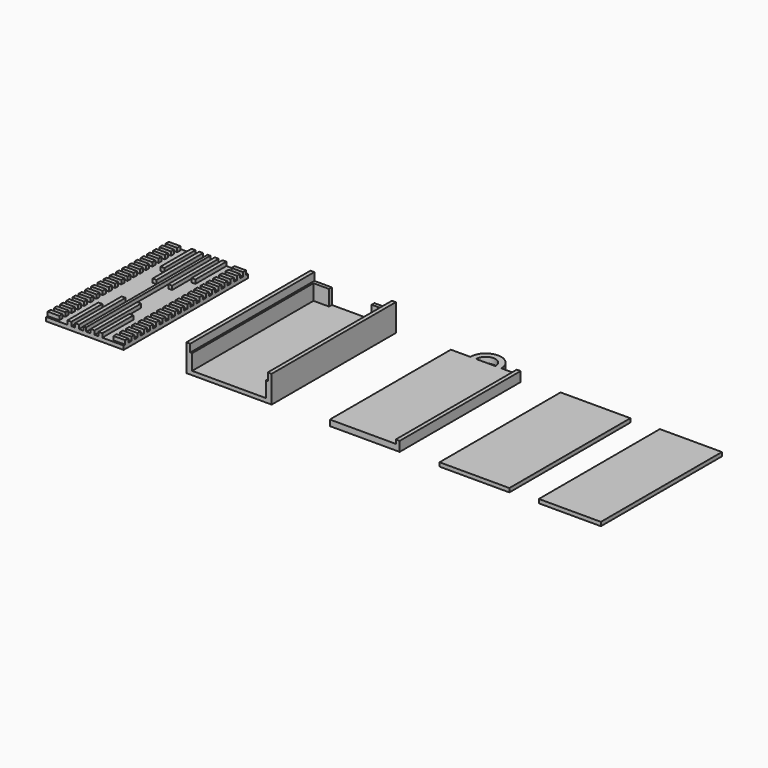
from build123d import *

# Parameters (mm, degrees)
F0_W     = 3
F0_H     = 1
F0_W_2   = 1
F0_H_2   = 15
F0_W_3   = 0.7
F0_H_3   = 40
F0_H_4   = 10
F1_DEPTH = 1
F2_DEPTH = 2
F3_DEPTH = 1
F4_DEPTH = 5
F5_DEPTH = 7
F0_H_5   = 39
F6_DEPTH = 1.5
F7_DEPTH = 2.5
F0_W_4   = 18
F8_DEPTH = 1
F0_W_5   = 16
F9_DEPTH = 1


with BuildPart() as f1:
    # F0 (on Top) → F1 (new body)
    with BuildSketch(Plane.XY):
        with Locations((-53.3331068737, 19)):
            Rectangle(F0_W, F0_H)
        with Locations((-53.3331068737, 17)):
            Rectangle(F0_W, F0_H)
        with Locations((-36.3331068737, 11)):
            Rectangle(F0_W, F0_H)
        with Locations((-53.3331068737, 15)):
            Rectangle(F0_W, F0_H)
        with Locations((-53.3331068737, 13)):
            Rectangle(F0_W, F0_H)
        with Locations((-36.3331068737, 29)):
            Rectangle(F0_W, F0_H)
        with Locations((-36.3331068737, 5)):
            Rectangle(F0_W, F0_H)
        with Locations((-36.3331068737, 17)):
            Rectangle(F0_W, F0_H)
        with Locations((-42.8331068737, 32.5)):
            Rectangle(F0_W_2, F0_H_2)
        with Locations((-53.3331068737, 39)):
            Rectangle(F0_W, F0_H)
        with Locations((-36.3331068737, 3)):
            Rectangle(F0_W, F0_H)
        with Locations((-36.3331068737, 35)):
            Rectangle(F0_W, F0_H)
        with Locations((-53.3331068737, 11)):
            Rectangle(F0_W, F0_H)
        with Locations((-36.3331068737, 37)):
            Rectangle(F0_W, F0_H)
        with Locations((-44.8331068737, 20)):
            Rectangle(F0_W_3, F0_H_3)
        with Locations((-53.3331068737, 9)):
            Rectangle(F0_W, F0_H)
        with Locations((-53.3331068737, 7)):
            Rectangle(F0_W, F0_H)
        with Locations((-46.8331068737, 32.5)):
            Rectangle(F0_W_2, F0_H_2)
        with Locations((-36.3331068737, 13)):
            Rectangle(F0_W, F0_H)
        with Locations((-53.3331068737, 5)):
            Rectangle(F0_W, F0_H)
        with Locations((-53.3331068737, 3)):
            Rectangle(F0_W, F0_H)
        with Locations((-53.3331068737, 27)):
            Rectangle(F0_W, F0_H)
        with Locations((-40.8331068737, 5)):
            Rectangle(F0_W_2, F0_H_4)
        with Locations((-36.3331068737, 21)):
            Rectangle(F0_W, F0_H)
        with Locations((-53.3331068737, 1)):
            Rectangle(F0_W, F0_H)
        with Locations((-53.3331068737, 23)):
            Rectangle(F0_W, F0_H)
        with Locations((-53.3331068737, 21)):
            Rectangle(F0_W, F0_H)
        with Locations((-53.3331068737, 25)):
            Rectangle(F0_W, F0_H)
        with Locations((-36.3331068737, 1)):
            Rectangle(F0_W, F0_H)
        with Locations((-36.3331068737, 33)):
            Rectangle(F0_W, F0_H)
        with Locations((-53.3331068737, 29)):
            Rectangle(F0_W, F0_H)
        with Locations((-48.8331068737, 5)):
            Rectangle(F0_W_2, F0_H_4)
        with Locations((-36.3331068737, 23)):
            Rectangle(F0_W, F0_H)
        with Locations((-53.3331068737, 31)):
            Rectangle(F0_W, F0_H)
        with Locations((-36.3331068737, 25)):
            Rectangle(F0_W, F0_H)
        with Locations((-46.8331068737, 7.5)):
            Rectangle(F0_W_2, F0_H_2)
        with Locations((-53.3331068737, 33)):
            Rectangle(F0_W, F0_H)
        with Locations((-42.8331068737, 7.5)):
            Rectangle(F0_W_2, F0_H_2)
        with Locations((-36.3331068737, 27)):
            Rectangle(F0_W, F0_H)
        with Locations((-36.3331068737, 31)):
            Rectangle(F0_W, F0_H)
        with Locations((-53.3331068737, 37)):
            Rectangle(F0_W, F0_H)
        with Locations((-53.3331068737, 35)):
            Rectangle(F0_W, F0_H)
        with Locations((-36.3331068737, 15)):
            Rectangle(F0_W, F0_H)
        with Locations((-48.8331068737, 35)):
            Rectangle(F0_W_2, F0_H_4)
        with Locations((-36.3331068737, 9)):
            Rectangle(F0_W, F0_H)
        Polygon((-44.4831068737, 40), (-44.4831068737, 0), (-43.3331068737, 0), (-43.3331068737, 15), (-42.3331068737, 15), (-42.3331068737, 0), (-41.3331068737, 0), (-41.3331068737, 10), (-40.3331068737, 10), (-40.3331068737, 0), (-34.8331068737, 0), (-34.8331068737, 0.5), (-37.8331068737, 0.5), (-37.8331068737, 1.5), (-34.8331068737, 1.5), (-34.8331068737, 2.5), (-37.8331068737, 2.5), (-37.8331068737, 3.5), (-34.8331068737, 3.5), (-34.8331068737, 4.5), (-37.8331068737, 4.5), (-37.8331068737, 5.5), (-34.8331068737, 5.5), (-34.8331068737, 6.5), (-37.8331068737, 6.5), (-37.8331068737, 7.5), (-34.8331068737, 7.5), (-34.8331068737, 8.5), (-37.8331068737, 8.5), (-37.8331068737, 9.5), (-34.8331068737, 9.5), (-34.8331068737, 10.5), (-37.8331068737, 10.5), (-37.8331068737, 11.5), (-34.8331068737, 11.5), (-34.8331068737, 12.5), (-37.8331068737, 12.5), (-37.8331068737, 13.5), (-34.8331068737, 13.5), (-34.8331068737, 14.5), (-37.8331068737, 14.5), (-37.8331068737, 15.5), (-34.8331068737, 15.5), (-34.8331068737, 16.5), (-37.8331068737, 16.5), (-37.8331068737, 17.5), (-34.8331068737, 17.5), (-34.8331068737, 18.5), (-37.8331068737, 18.5), (-37.8331068737, 19.5), (-34.8331068737, 19.5), (-34.8331068737, 20.5), (-37.8331068737, 20.5), (-37.8331068737, 21.5), (-34.8331068737, 21.5), (-34.8331068737, 22.5), (-37.8331068737, 22.5), (-37.8331068737, 23.5), (-34.8331068737, 23.5), (-34.8331068737, 24.5), (-37.8331068737, 24.5), (-37.8331068737, 25.5), (-34.8331068737, 25.5), (-34.8331068737, 26.5), (-37.8331068737, 26.5), (-37.8331068737, 27.5), (-34.8331068737, 27.5), (-34.8331068737, 28.5), (-37.8331068737, 28.5), (-37.8331068737, 29.5), (-34.8331068737, 29.5), (-34.8331068737, 30.5), (-37.8331068737, 30.5), (-37.8331068737, 31.5), (-34.8331068737, 31.5), (-34.8331068737, 32.5), (-37.8331068737, 32.5), (-37.8331068737, 33.5), (-34.8331068737, 33.5), (-34.8331068737, 34.5), (-37.8331068737, 34.5), (-37.8331068737, 35.5), (-34.8331068737, 35.5), (-34.8331068737, 36.5), (-37.8331068737, 36.5), (-37.8331068737, 37.5), (-34.8331068737, 37.5), (-34.8331068737, 38.5), (-37.8331068737, 38.5), (-37.8331068737, 39.5), (-34.8331068737, 39.5), (-34.8331068737, 40), (-40.3331068737, 40), (-40.3331068737, 30), (-41.3331068737, 30), (-41.3331068737, 40), (-42.3331068737, 40), (-42.3331068737, 25), (-43.3331068737, 25), (-43.3331068737, 40), align=None)
        with Locations((-36.3331068737, 19)):
            Rectangle(F0_W, F0_H)
        Polygon((-54.8331068737, 0.5), (-54.8331068737, 0), (-49.3331068737, 0), (-49.3331068737, 10), (-48.3331068737, 10), (-48.3331068737, 0), (-47.3331068737, 0), (-47.3331068737, 15), (-46.3331068737, 15), (-46.3331068737, 0), (-45.1831068737, 0), (-45.1831068737, 40), (-46.3331068737, 40), (-46.3331068737, 25), (-47.3331068737, 25), (-47.3331068737, 40), (-48.3331068737, 40), (-48.3331068737, 30), (-49.3331068737, 30), (-49.3331068737, 40), (-54.8331068737, 40), (-54.8331068737, 39.5), (-51.8331068737, 39.5), (-51.8331068737, 38.5), (-54.8331068737, 38.5), (-54.8331068737, 37.5), (-51.8331068737, 37.5), (-51.8331068737, 36.5), (-54.8331068737, 36.5), (-54.8331068737, 35.5), (-51.8331068737, 35.5), (-51.8331068737, 34.5), (-54.8331068737, 34.5), (-54.8331068737, 33.5), (-51.8331068737, 33.5), (-51.8331068737, 32.5), (-54.8331068737, 32.5), (-54.8331068737, 31.5), (-51.8331068737, 31.5), (-51.8331068737, 30.5), (-54.8331068737, 30.5), (-54.8331068737, 29.5), (-51.8331068737, 29.5), (-51.8331068737, 28.5), (-54.8331068737, 28.5), (-54.8331068737, 27.5), (-51.8331068737, 27.5), (-51.8331068737, 26.5), (-54.8331068737, 26.5), (-54.8331068737, 25.5), (-51.8331068737, 25.5), (-51.8331068737, 24.5), (-54.8331068737, 24.5), (-54.8331068737, 23.5), (-51.8331068737, 23.5), (-51.8331068737, 22.5), (-54.8331068737, 22.5), (-54.8331068737, 21.5), (-51.8331068737, 21.5), (-51.8331068737, 20.5), (-54.8331068737, 20.5), (-54.8331068737, 19.5), (-51.8331068737, 19.5), (-51.8331068737, 18.5), (-54.8331068737, 18.5), (-54.8331068737, 17.5), (-51.8331068737, 17.5), (-51.8331068737, 16.5), (-54.8331068737, 16.5), (-54.8331068737, 15.5), (-51.8331068737, 15.5), (-51.8331068737, 14.5), (-54.8331068737, 14.5), (-54.8331068737, 13.5), (-51.8331068737, 13.5), (-51.8331068737, 12.5), (-54.8331068737, 12.5), (-54.8331068737, 11.5), (-51.8331068737, 11.5), (-51.8331068737, 10.5), (-54.8331068737, 10.5), (-54.8331068737, 9.5), (-51.8331068737, 9.5), (-51.8331068737, 8.5), (-54.8331068737, 8.5), (-54.8331068737, 7.5), (-51.8331068737, 7.5), (-51.8331068737, 6.5), (-54.8331068737, 6.5), (-54.8331068737, 5.5), (-51.8331068737, 5.5), (-51.8331068737, 4.5), (-54.8331068737, 4.5), (-54.8331068737, 3.5), (-51.8331068737, 3.5), (-51.8331068737, 2.5), (-54.8331068737, 2.5), (-54.8331068737, 1.5), (-51.8331068737, 1.5), (-51.8331068737, 0.5), align=None)
        with Locations((-36.3331068737, 39)):
            Rectangle(F0_W, F0_H)
        with Locations((-36.3331068737, 7)):
            Rectangle(F0_W, F0_H)
        with Locations((-40.8331068737, 35)):
            Rectangle(F0_W_2, F0_H_4)
    extrude(amount=F1_DEPTH)

    # F0 (on Top) → F2 (join)
    with BuildSketch(Plane.XY):
        with Locations((-36.3331068737, 11)):
            Rectangle(F0_W, F0_H)
        with Locations((-36.3331068737, 9)):
            Rectangle(F0_W, F0_H)
        with Locations((-36.3331068737, 7)):
            Rectangle(F0_W, F0_H)
        with Locations((-36.3331068737, 5)):
            Rectangle(F0_W, F0_H)
        with Locations((-36.3331068737, 3)):
            Rectangle(F0_W, F0_H)
        with Locations((-36.3331068737, 1)):
            Rectangle(F0_W, F0_H)
        with Locations((-40.8331068737, 5)):
            Rectangle(F0_W_2, F0_H_4)
        with Locations((-42.8331068737, 7.5)):
            Rectangle(F0_W_2, F0_H_2)
        with Locations((-44.8331068737, 20)):
            Rectangle(F0_W_3, F0_H_3)
        with Locations((-46.8331068737, 7.5)):
            Rectangle(F0_W_2, F0_H_2)
        with Locations((-48.8331068737, 5)):
            Rectangle(F0_W_2, F0_H_4)
        with Locations((-53.3331068737, 1)):
            Rectangle(F0_W, F0_H)
        with Locations((-53.3331068737, 3)):
            Rectangle(F0_W, F0_H)
        with Locations((-53.3331068737, 5)):
            Rectangle(F0_W, F0_H)
        with Locations((-53.3331068737, 7)):
            Rectangle(F0_W, F0_H)
        with Locations((-53.3331068737, 9)):
            Rectangle(F0_W, F0_H)
        with Locations((-53.3331068737, 11)):
            Rectangle(F0_W, F0_H)
        with Locations((-53.3331068737, 13)):
            Rectangle(F0_W, F0_H)
        with Locations((-53.3331068737, 15)):
            Rectangle(F0_W, F0_H)
        with Locations((-53.3331068737, 17)):
            Rectangle(F0_W, F0_H)
        with Locations((-53.3331068737, 19)):
            Rectangle(F0_W, F0_H)
        with Locations((-53.3331068737, 21)):
            Rectangle(F0_W, F0_H)
        with Locations((-53.3331068737, 23)):
            Rectangle(F0_W, F0_H)
        with Locations((-53.3331068737, 25)):
            Rectangle(F0_W, F0_H)
        with Locations((-53.3331068737, 27)):
            Rectangle(F0_W, F0_H)
        with Locations((-53.3331068737, 29)):
            Rectangle(F0_W, F0_H)
        with Locations((-53.3331068737, 31)):
            Rectangle(F0_W, F0_H)
        with Locations((-53.3331068737, 33)):
            Rectangle(F0_W, F0_H)
        with Locations((-53.3331068737, 35)):
            Rectangle(F0_W, F0_H)
        with Locations((-53.3331068737, 37)):
            Rectangle(F0_W, F0_H)
        with Locations((-53.3331068737, 39)):
            Rectangle(F0_W, F0_H)
        with Locations((-48.8331068737, 35)):
            Rectangle(F0_W_2, F0_H_4)
        with Locations((-46.8331068737, 32.5)):
            Rectangle(F0_W_2, F0_H_2)
        with Locations((-42.8331068737, 32.5)):
            Rectangle(F0_W_2, F0_H_2)
        with Locations((-40.8331068737, 35)):
            Rectangle(F0_W_2, F0_H_4)
        with Locations((-36.3331068737, 39)):
            Rectangle(F0_W, F0_H)
        with Locations((-36.3331068737, 37)):
            Rectangle(F0_W, F0_H)
        with Locations((-36.3331068737, 35)):
            Rectangle(F0_W, F0_H)
        with Locations((-36.3331068737, 33)):
            Rectangle(F0_W, F0_H)
        with Locations((-36.3331068737, 31)):
            Rectangle(F0_W, F0_H)
        with Locations((-36.3331068737, 29)):
            Rectangle(F0_W, F0_H)
        with Locations((-36.3331068737, 27)):
            Rectangle(F0_W, F0_H)
        with Locations((-36.3331068737, 25)):
            Rectangle(F0_W, F0_H)
        with Locations((-36.3331068737, 23)):
            Rectangle(F0_W, F0_H)
        with Locations((-36.3331068737, 21)):
            Rectangle(F0_W, F0_H)
        with Locations((-36.3331068737, 19)):
            Rectangle(F0_W, F0_H)
        with Locations((-36.3331068737, 17)):
            Rectangle(F0_W, F0_H)
        with Locations((-36.3331068737, 15)):
            Rectangle(F0_W, F0_H)
        with Locations((-36.3331068737, 13)):
            Rectangle(F0_W, F0_H)
    extrude(amount=F2_DEPTH)


with BuildPart() as f3:
    # F0 (on Top) → F3 (new body)
    with BuildSketch(Plane.XY):
        Polygon((1.8323244452, 39.1), (1.8323244452, 0), (2.3323244452, 0), (2.3323244452, 40), (1.8323244452, 40), (-2.1676755548, 40), (-2.1676755548, 39.1), align=None)
        with Locations((2.8323244452, 20)):
            Rectangle(F0_W_2, F0_H_3)
        Polygon((-17.6676755548, 40), (-17.6676755548, 0), (-17.1676755548, 0), (-17.1676755548, 39.1), (-13.1676755548, 39.1), (-13.1676755548, 40), (-17.1676755548, 40), align=None)
        Polygon((-17.1676755548, 39.1), (-17.1676755548, 0), (1.8323244452, 0), (1.8323244452, 39.1), (-2.1676755548, 39.1), (-2.1676755548, 40), (-13.1676755548, 40), (-13.1676755548, 39.1), align=None)
        with Locations((-18.1676755548, 20)):
            Rectangle(F0_W_2, F0_H_3)
    extrude(amount=F3_DEPTH)

    # F0 (on Top) → F4 (join)
    with BuildSketch(Plane.XY):
        with Locations((-18.1676755548, 20)):
            Rectangle(F0_W_2, F0_H_3)
        Polygon((-17.6676755548, 40), (-17.6676755548, 0), (-17.1676755548, 0), (-17.1676755548, 39.1), (-13.1676755548, 39.1), (-13.1676755548, 40), (-17.1676755548, 40), align=None)
        Polygon((1.8323244452, 39.1), (1.8323244452, 0), (2.3323244452, 0), (2.3323244452, 40), (1.8323244452, 40), (-2.1676755548, 40), (-2.1676755548, 39.1), align=None)
        with Locations((2.8323244452, 20)):
            Rectangle(F0_W_2, F0_H_3)
    extrude(amount=F4_DEPTH)

    # F0 (on Top) → F5 (join)
    with BuildSketch(Plane.XY):
        with Locations((-18.1676755548, 20)):
            Rectangle(F0_W_2, F0_H_3)
        with Locations((2.8323244452, 20)):
            Rectangle(F0_W_2, F0_H_3)
    extrude(amount=F5_DEPTH)


with BuildPart() as f6:
    # F0 (on Top) → F6 (new body)
    with BuildSketch(Plane.XY):
        with BuildLine():
            ThreePointArc((31.3263141662, 39), (27.3263141662, 43), (23.3263141662, 39))
            Line((23.3263141662, 39), (24.8263141662, 39))
            ThreePointArc((24.8263141662, 39), (27.3263141662, 41.5), (29.8263141662, 39))
            Line((29.8263141662, 39), (31.3263141662, 39))
        make_face()
        with BuildLine():
            Line((18.3263141662, 39), (18.3263141662, 0))
            Line((18.3263141662, 0), (35.3263141662, 0))
            Line((35.3263141662, 0), (35.3263141662, 39))
            Line((35.3263141662, 39), (31.3263141662, 39))
            ThreePointArc((31.3263141662, 39), (27.3263141662, 35), (23.3263141662, 39))
            Line((23.3263141662, 39), (18.3263141662, 39))
        make_face()
        with Locations((35.8263141662, 19.5)):
            Rectangle(F0_W_2, F0_H_5)
        with BuildLine():
            Line((24.8263141662, 39), (23.3263141662, 39))
            ThreePointArc((23.3263141662, 39), (27.3263141662, 35), (31.3263141662, 39))
            Line((31.3263141662, 39), (29.8263141662, 39))
            ThreePointArc((29.8263141662, 39), (27.3263141662, 36.5), (24.8263141662, 39))
        make_face()
        with BuildLine():
            Line((29.8263141662, 39), (24.8263141662, 39))
            ThreePointArc((24.8263141662, 39), (27.3263141662, 36.5), (29.8263141662, 39))
        make_face()
    extrude(amount=F6_DEPTH)

    # F0 (on Top) → F7 (join)
    with BuildSketch(Plane.XY):
        with Locations((35.8263141662, 19.5)):
            Rectangle(F0_W_2, F0_H_5)
    extrude(amount=F7_DEPTH)


with BuildPart() as f8:
    # F0 (on Top) → F8 (new body)
    with BuildSketch(Plane.XY):
        with Locations((55.6158427298, 19.5)):
            Rectangle(F0_W_4, F0_H_5)
    extrude(amount=F8_DEPTH)


with BuildPart() as f9:
    # F0 (on Top) → F9 (new body)
    with BuildSketch(Plane.XY):
        with Locations((80.2172036767, 19.5)):
            Rectangle(F0_W_5, F0_H_5)
    extrude(amount=F9_DEPTH)


solid = Compound([f1.part, f3.part, f6.part, f8.part, f9.part])
